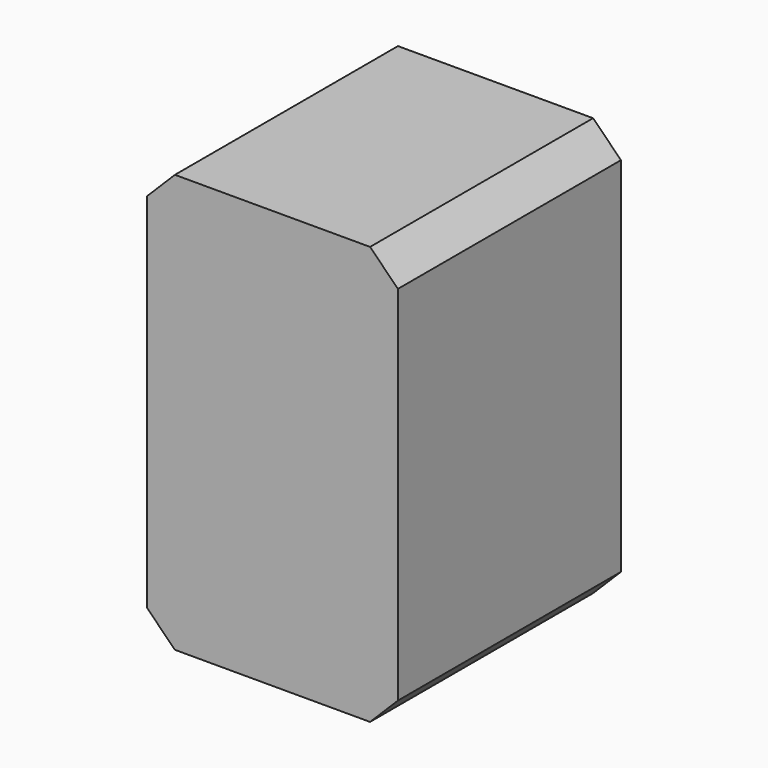
from build123d import *

# Parameters (mm, degrees)
F0_W     = 57.15
F0_H     = 95.25
F1_DEPTH = 63.5
F2_R     = 12.7
F2_R_2   = 25.4
F3_DEPTH = 25.4
F4_SIZE  = 6.35


with BuildPart() as f1:
    # F0 (on Front) → F1 (new body)
    with BuildSketch(Plane.XZ):
        Rectangle(F0_W, F0_H)
    extrude(amount=F1_DEPTH)

    # F2 (on face) → F3 (cut)
    with BuildSketch(Plane(origin=(0, 0, 0), x_dir=(-1, 0, 0), z_dir=(0, 1, 0))):
        with Locations((0, 28.575)):
            Circle(F2_R)
        with Locations((0, -15.875)):
            Circle(F2_R_2)
    extrude(amount=-F3_DEPTH, mode=Mode.SUBTRACT)

    # F4
    f4_edges = [f1.edges().sort_by_distance(p)[0] for p in [
        (-28.575, -31.75, 47.625),
        (28.575, -31.75, 47.625),
        (28.575, -31.75, -47.625),
        (-28.575, -31.75, -47.625),
    ]]
    chamfer(f4_edges, length=F4_SIZE)


solid = f1.part
